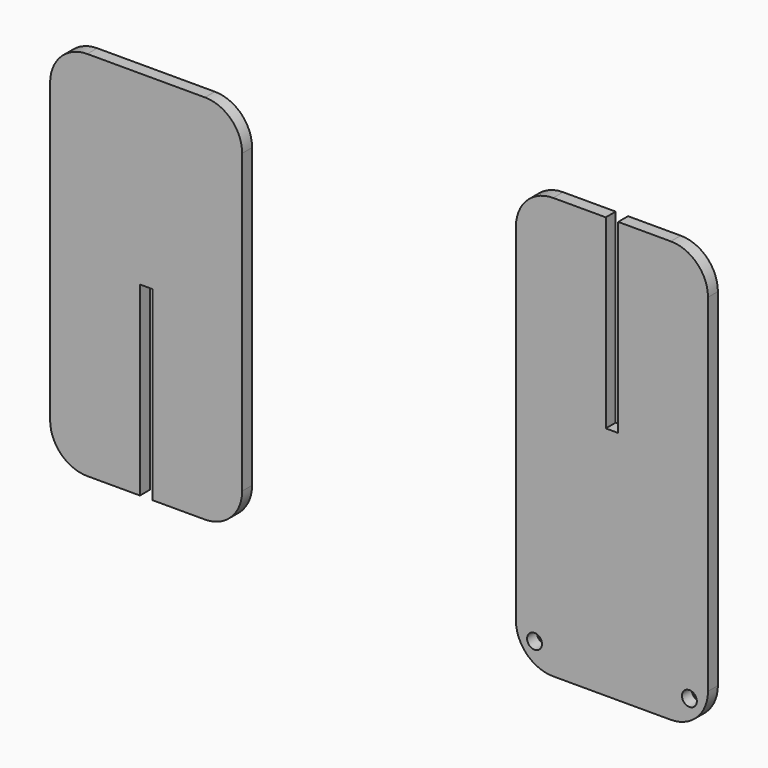
from build123d import *

# Parameters (mm, degrees)
F1_DEPTH = 6.35
F2_R     = 3.81
F3_DEPTH = 6.35


with BuildPart() as f1:
    # F0 (on Front) → F1 (new body)
    with BuildSketch(Plane.XZ):
        with BuildLine():
            ThreePointArc((49.2125, 76.2), (43.632884, 89.670384), (30.1625, 95.25))
            Line((30.1625, 95.25), (-30.1625, 95.25))
            ThreePointArc((-30.1625, 95.25), (-43.632884, 89.670384), (-49.2125, 76.2))
            Line((-49.2125, 76.2), (-49.2125, -76.2))
            ThreePointArc((-49.2125, -76.2), (-43.632884, -89.670384), (-30.1625, -95.25))
            Line((-30.1625, -95.25), (-3.175, -95.25))
            Line((-3.175, -95.25), (-3.175, 0))
            Line((-3.175, 0), (3.175, 0))
            Line((3.175, 0), (3.175, -95.25))
            Line((3.175, -95.25), (30.1625, -95.25))
            ThreePointArc((30.1625, -95.25), (43.632884, -89.670384), (49.2125, -76.2))
            Line((49.2125, -76.2), (49.2125, 76.2))
        make_face()
    extrude(amount=F1_DEPTH)


with BuildPart() as f3:
    # F2 (on Front) → F3 (new body)
    with BuildSketch(Plane.XZ):
        with BuildLine():
            ThreePointArc((287.985071, 88.9), (282.405455, 102.370384), (268.935071, 107.95))
            Line((268.935071, 107.95), (241.947571, 107.95))
            Line((241.947571, 107.95), (241.947571, 12.7))
            Line((241.947571, 12.7), (235.597571, 12.7))
            Line((235.597571, 12.7), (235.597571, 107.95))
            Line((235.597571, 107.95), (208.610071, 107.95))
            ThreePointArc((208.610071, 107.95), (195.139687, 102.370384), (189.560071, 88.9))
            Line((189.560071, 88.9), (189.560071, -88.9))
            ThreePointArc((189.560071, -88.9), (195.139687, -102.370384), (208.610071, -107.95))
            Line((208.610071, -107.95), (268.935071, -107.95))
            ThreePointArc((268.935071, -107.95), (282.405455, -102.370384), (287.985071, -88.9))
            Line((287.985071, -88.9), (287.985071, 88.9))
        make_face()
        with Locations((199.085071, -95.25)):
            Circle(F2_R, mode=Mode.SUBTRACT)
        with Locations((278.460071, -95.25)):
            Circle(F2_R, mode=Mode.SUBTRACT)
    extrude(amount=F3_DEPTH)


solid = Compound([f1.part, f3.part])
